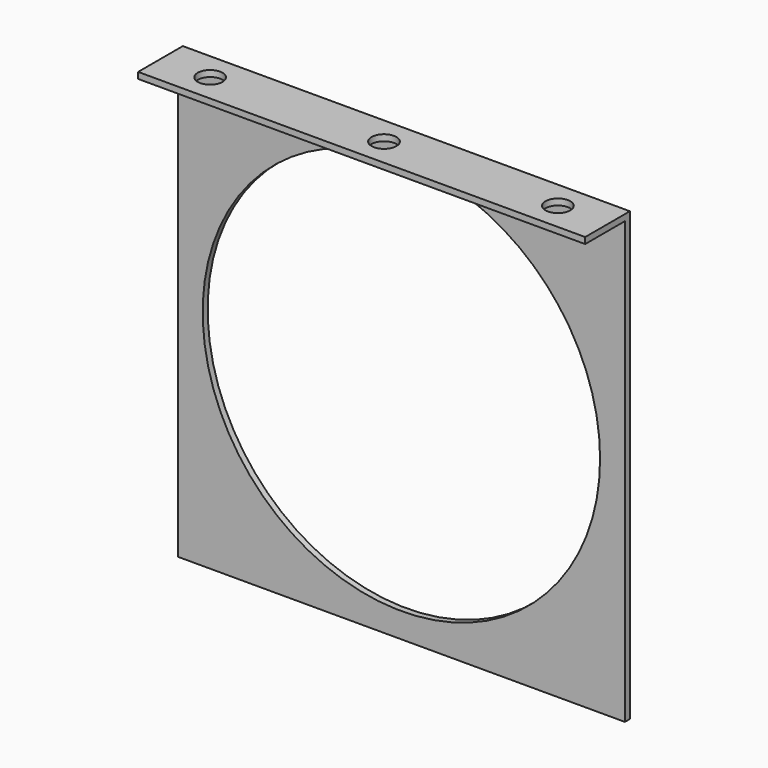
from build123d import *

# Parameters (mm, degrees)
F0_W     = 114.3
F0_H     = 114.3
F0_R     = 50.8
F1_DEPTH = 1.5875
F2_W     = 114.3
F2_H     = 1.5875
F3_DEPTH = 12.7
F5_DEPTH = 25.4


with BuildPart() as f1:
    # F0 (on Front) → F1 (new body)
    with BuildSketch(Plane.XZ):
        Rectangle(F0_W, F0_H)
        Circle(F0_R, mode=Mode.SUBTRACT)
    extrude(amount=F1_DEPTH)

    # F2 (on face) → F3 (join)
    with BuildSketch(Plane.XZ.offset(1.5875)):
        with Locations((0, 56.35625)):
            Rectangle(F2_W, F2_H)
    extrude(amount=F3_DEPTH)

    # F4 (on face) → F5 (cut)
    with BuildSketch(Plane.XY.offset(57.15)):
        with BuildLine():
            ThreePointArc((-41.275, -7.14375), (-44.45, -3.96875), (-47.625, -7.14375))
            Line((-47.625, -7.14375), (-41.275, -7.14375))
        make_face()
        with BuildLine():
            ThreePointArc((47.625, -7.14375), (44.45, -3.96875), (41.275, -7.14375))
            Line((41.275, -7.14375), (47.625, -7.14375))
        make_face()
        with BuildLine():
            Line((47.625, -7.14375), (41.275, -7.14375))
            ThreePointArc((41.275, -7.14375), (44.45, -10.31875), (47.625, -7.14375))
        make_face()
        with BuildLine():
            ThreePointArc((3.175, -7.14375), (0, -3.96875), (-3.175, -7.14375))
            Line((-3.175, -7.14375), (3.175, -7.14375))
        make_face()
        with BuildLine():
            Line((3.175, -7.14375), (-3.175, -7.14375))
            ThreePointArc((-3.175, -7.14375), (0, -10.31875), (3.175, -7.14375))
        make_face()
        with BuildLine():
            Line((-41.275, -7.14375), (-47.625, -7.14375))
            ThreePointArc((-47.625, -7.14375), (-44.45, -10.31875), (-41.275, -7.14375))
        make_face()
    extrude(amount=-F5_DEPTH, mode=Mode.SUBTRACT)


solid = f1.part
